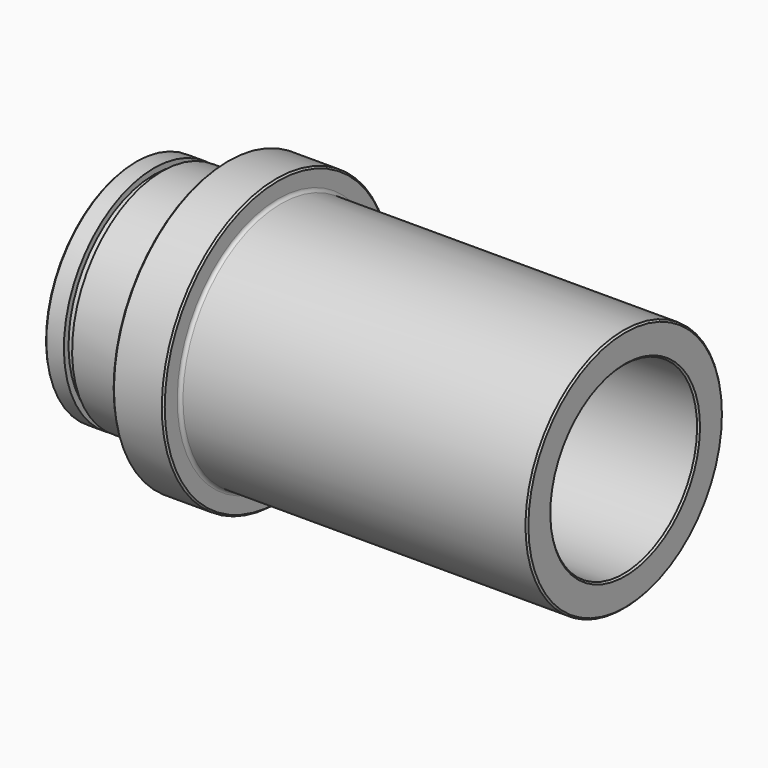
from build123d import *

# Parameters (mm, degrees)
F2_SIZE = 0.5
F3_R    = 1


with BuildPart() as f1:
    # F0 (on Front) → F1 (revolve)
    with BuildSketch(Plane.XZ):
        Polygon((-44.45, 35), (-44.45, 28.575), (107.95, 28.575), (107.95, 38.1), (0, 38.1), (0, 44.45), (-15.875, 44.45), (-15.875, 35), (-35.95, 35), (-35.95, 33.2), (-38.5, 33.2), (-38.5, 35), align=None)
    revolve(axis=Axis((19.276485, 0, 0), (1, 0, 0)))

    # F2
    f2_edges = [f1.edges().sort_by_distance(p)[0] for p in [
        (107.95, 0, -38.1),
        (107.95, 0, -28.575),
        (-44.45, 0, -28.575),
        (-44.45, 0, -35),
        (-15.875, 0, -44.45),
        (0, 0, -44.45),
    ]]
    chamfer(f2_edges, length=F2_SIZE)

    # F3
    f3_edges = [f1.edges().sort_by_distance(p)[0] for p in [
        (-15.875, 0, -35),
        (0, 0, -38.1),
    ]]
    fillet(f3_edges, radius=F3_R)


solid = f1.part
